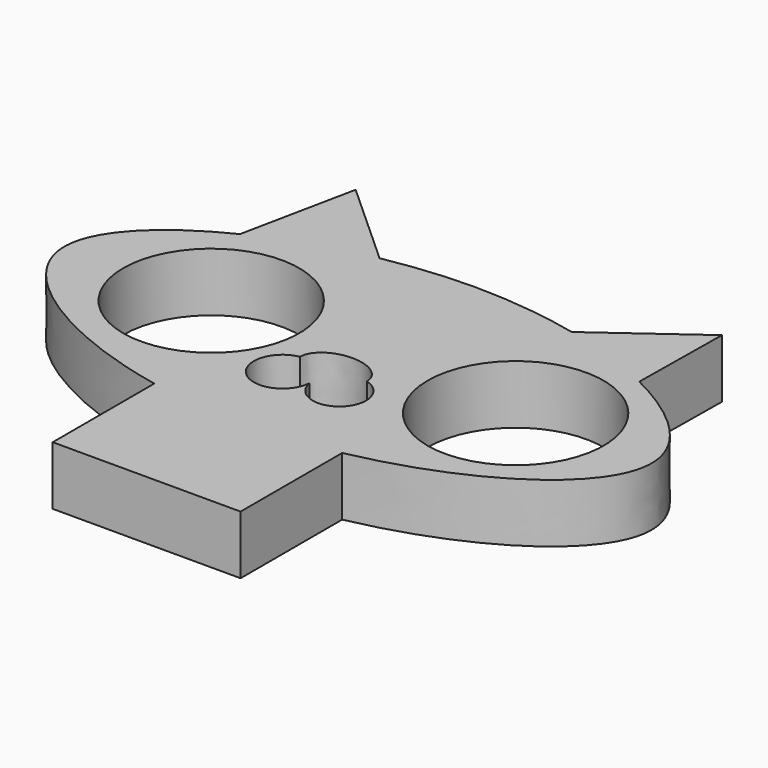
from build123d import *

# Parameters (mm, degrees)
F1_DEPTH = 5


with BuildPart() as f1:
    # F0 (on Top) → F1 (new body)
    with BuildSketch(Plane.XY):
        with BuildLine():
            Line((-25.9063377976, 0), (-30.9063377976, 0))
            ThreePointArc((-30.9063377976, 0), (-38.4063377976, -7.5), (-45.9063377976, 0))
            Line((-45.9063377976, 0), (-50.9063377976, 0))
            add(Edge.make_bspline(
                [(-33.9063377976, -11.6829281652), (-43.2373721422, -9.7909177656), (-50.9063377976, -4.8954588828), (-50.9063377976, 0)],
                knots=[0.0541816447, 0.0541816447, 0.0541816447, 0.0541816447, 0.25, 0.25, 0.25, 0.25], degree=3))
            add(Edge.make_bspline(
                [(-25.9063377976, -12.5), (-28.615420032, -12.5), (-31.3245022664, -12.2064349379), (-33.9063377976, -11.6829281652)],
                knots=[0, 0, 0, 0, 0.0541816447, 0.0541816447, 0.0541816447, 0.0541816447], degree=3))
            Line((-25.9063377976, -12.5), (-25.9063377976, -5.3838636288))
            ThreePointArc((-25.9063377976, -5.3838636288), (-30.0224367816, -6.7689191749), (-28.750597313, -2.6164411101))
            add(Edge.make_bspline(
                [(-25.9063377976, -0.5781269538), (-28.750597313, -0.5781269538), (-28.750597313, -2.6164411101)],
                knots=[1.5707963268, 1.5707963268, 1.5707963268, 3.1415926536, 3.1415926536, 3.1415926536], degree=2, weights=[1, 0.7071067812, 1]))
            Line((-25.9063377976, -0.5781269538), (-25.9063377976, 0))
        make_face()
        with BuildLine():
            ThreePointArc((-45.9063377976, 0), (-38.4063377976, 7.5), (-30.9063377976, 0))
            Line((-30.9063377976, 0), (-25.9063377976, 0))
            Line((-25.9063377976, 0), (-25.9063377976, 8.6866739607))
            Line((-25.9063377976, 8.6866739607), (-42.9063377976, 8.6866739607))
            add(Edge.make_bspline(
                [(-50.9063377976, 0), (-50.9063377976, 3.1664839146), (-47.6978192755, 6.3329678293), (-42.9063377976, 8.6866739607)],
                knots=[0.25, 0.25, 0.25, 0.25, 0.3766593566, 0.3766593566, 0.3766593566, 0.3766593566], degree=3))
            Line((-50.9063377976, 0), (-45.9063377976, 0))
        make_face()
        with BuildLine():
            Line((-19.9799482524, 0), (-25.9063377976, 0))
            Line((-25.9063377976, 0), (-25.9063377976, -0.5781269538))
            add(Edge.make_bspline(
                [(-23.0620782822, -2.6164411101), (-23.0620782822, -0.5781269538), (-25.9063377976, -0.5781269538)],
                knots=[0, 0, 0, 1.5707963268, 1.5707963268, 1.5707963268], degree=2, weights=[1, 0.7071067812, 1]))
            ThreePointArc((-23.0620782822, -2.6164411101), (-22.1210046763, -6.4932497418), (-25.8834229341, -5.1667982533))
            ThreePointArc((-25.8834229341, -5.1667982533), (-25.8924530621, -5.2755871834), (-25.9063377976, -5.3838636288))
            Line((-25.9063377976, -5.3838636288), (-25.9063377976, -12.5))
            add(Edge.make_bspline(
                [(-17.9063377976, -11.6829281652), (-20.4881733289, -12.2064349379), (-23.1972555633, -12.5), (-25.9063377976, -12.5)],
                knots=[0.9458183553, 0.9458183553, 0.9458183553, 0.9458183553, 1, 1, 1, 1], degree=3))
            add(Edge.make_bspline(
                [(-0.9063377976, 0), (-0.9063377976, -4.8954588828), (-8.5753034531, -9.7909177656), (-17.9063377976, -11.6829281652)],
                knots=[0.75, 0.75, 0.75, 0.75, 0.9458183553, 0.9458183553, 0.9458183553, 0.9458183553], degree=3))
            Line((-0.9063377976, 0), (-4.9799482524, 0))
            ThreePointArc((-4.9799482524, 0), (-12.4799482524, -7.5), (-19.9799482524, 0))
        make_face()
        with BuildLine():
            Line((-25.9063377976, 8.6866739607), (-25.9063377976, 0))
            Line((-25.9063377976, 0), (-19.9799482524, 0))
            ThreePointArc((-19.9799482524, 0), (-12.4799482524, 7.5), (-4.9799482524, 0))
            Line((-4.9799482524, 0), (-0.9063377976, 0))
            add(Edge.make_bspline(
                [(-8.8899015438, 8.6785937828), (-4.1075202733, 6.3257237488), (-0.9063377976, 3.1628618744), (-0.9063377976, 0)],
                knots=[0.623485525, 0.623485525, 0.623485525, 0.623485525, 0.75, 0.75, 0.75, 0.75], degree=3))
            add(Edge.make_bspline(
                [(-8.9063377976, 8.6866739607), (-8.9008569744, 8.6839816311), (-8.8953782223, 8.6812882381), (-8.8899015438, 8.6785937828)],
                knots=[0.6233406434, 0.6233406434, 0.6233406434, 0.6233406434, 0.623485525, 0.623485525, 0.623485525, 0.623485525], degree=3))
            Line((-8.9063377976, 8.6866739607), (-25.9063377976, 8.6866739607))
        make_face()
        with BuildLine():
            Line((-42.9063377976, 8.6866739607), (-25.9063377976, 8.6866739607))
            Line((-25.9063377976, 8.6866739607), (-25.9063377976, 12.5))
            add(Edge.make_bspline(
                [(-33.4789344312, 11.7672606909), (-31.0263174898, 12.2378580795), (-28.4663276437, 12.5), (-25.9063377976, 12.5)],
                knots=[0.4488002031, 0.4488002031, 0.4488002031, 0.4488002031, 0.5, 0.5, 0.5, 0.5], degree=3))
            add(Edge.make_bspline(
                [(-41.1459706937, 9.4849044236), (-38.8240102839, 10.4558894105), (-36.2184537211, 11.2416137372), (-33.4789344312, 11.7672606909)],
                knots=[0.3916111537, 0.3916111537, 0.3916111537, 0.3916111537, 0.4488002031, 0.4488002031, 0.4488002031, 0.4488002031], degree=3))
            add(Edge.make_bspline(
                [(-42.9063377976, 8.6866739607), (-42.3407162678, 8.964522653), (-41.7530358818, 9.2310451497), (-41.1459706937, 9.4849044236)],
                knots=[0.3766593566, 0.3766593566, 0.3766593566, 0.3766593566, 0.3916111537, 0.3916111537, 0.3916111537, 0.3916111537], degree=3))
        make_face()
        with BuildLine():
            Line((-25.9063377976, 12.5), (-25.9063377976, 8.6866739607))
            Line((-25.9063377976, 8.6866739607), (-8.9063377976, 8.6866739607))
            add(Edge.make_bspline(
                [(-15.2081048927, 11.0406520967), (-12.9280458404, 10.4153300926), (-10.7943088262, 9.6140967227), (-8.9063377976, 8.6866739607)],
                knots=[0.5734334911, 0.5734334911, 0.5734334911, 0.5734334911, 0.6233406434, 0.6233406434, 0.6233406434, 0.6233406434], degree=3))
            add(Edge.make_bspline(
                [(-16.8685760838, 11.4586327815), (-16.3076164239, 11.3298315863), (-15.7536719147, 11.1902776353), (-15.2081048927, 11.0406520967)],
                knots=[0.5614918283, 0.5614918283, 0.5614918283, 0.5614918283, 0.5734334911, 0.5734334911, 0.5734334911, 0.5734334911], degree=3))
            add(Edge.make_bspline(
                [(-25.9063377976, 12.5), (-22.8317463823, 12.5), (-19.757154967, 12.1218755052), (-16.8685760838, 11.4586327815)],
                knots=[0.5, 0.5, 0.5, 0.5, 0.5614918283, 0.5614918283, 0.5614918283, 0.5614918283], degree=3))
        make_face()
        with BuildLine():
            add(Edge.make_bspline(
                [(-25.9063377976, -12.5), (-28.615420032, -12.5), (-31.3245022664, -12.2064349379), (-33.9063377976, -11.6829281652)],
                knots=[0, 0, 0, 0, 0.0541816447, 0.0541816447, 0.0541816447, 0.0541816447], degree=3))
            Line((-33.9063377976, -11.6829281652), (-33.9063377976, -22.5))
            Line((-33.9063377976, -22.5), (-25.9063377976, -22.5))
            Line((-25.9063377976, -22.5), (-25.9063377976, -12.5))
        make_face()
        with BuildLine():
            Line((-40.8898863235, 18.4812603967), (-42.9063377976, 8.6866739607))
            add(Edge.make_bspline(
                [(-42.9063377976, 8.6866739607), (-42.3407162678, 8.964522653), (-41.7530358818, 9.2310451497), (-41.1459706937, 9.4849044236)],
                knots=[0.3766593566, 0.3766593566, 0.3766593566, 0.3766593566, 0.3916111537, 0.3916111537, 0.3916111537, 0.3916111537], degree=3))
            Line((-41.1459706937, 9.4849044236), (-40.8898863235, 18.4812603967))
        make_face()
        with BuildLine():
            add(Edge.make_bspline(
                [(-15.2081048927, 11.0406520967), (-12.9280458404, 10.4153300926), (-10.7943088262, 9.6140967227), (-8.9063377976, 8.6866739607)],
                knots=[0.5734334911, 0.5734334911, 0.5734334911, 0.5734334911, 0.6233406434, 0.6233406434, 0.6233406434, 0.6233406434], degree=3))
            add(Edge.make_bspline(
                [(-8.9063377976, 8.6866739607), (-8.9008569744, 8.6839816311), (-8.8953782223, 8.6812882381), (-8.8899015438, 8.6785937828)],
                knots=[0.6233406434, 0.6233406434, 0.6233406434, 0.6233406434, 0.623485525, 0.623485525, 0.623485525, 0.623485525], degree=3))
            Line((-8.8899015438, 8.6785937828), (-8.7832060268, 17.3430861156))
            Line((-8.7832060268, 17.3430861156), (-15.2081048927, 11.0406520967))
        make_face()
        with BuildLine():
            add(Edge.make_bspline(
                [(-17.9063377976, -11.6829281652), (-20.4881733289, -12.2064349379), (-23.1972555633, -12.5), (-25.9063377976, -12.5)],
                knots=[0.9458183553, 0.9458183553, 0.9458183553, 0.9458183553, 1, 1, 1, 1], degree=3))
            Line((-25.9063377976, -12.5), (-25.9063377976, -22.5))
            Line((-25.9063377976, -22.5), (-17.9063377976, -22.5))
            Line((-17.9063377976, -22.5), (-17.9063377976, -11.6829281652))
        make_face()
        with BuildLine():
            Line((-40.8898863235, 18.4812603967), (-41.1459706937, 9.4849044236))
            add(Edge.make_bspline(
                [(-41.1459706937, 9.4849044236), (-38.8240102839, 10.4558894105), (-36.2184537211, 11.2416137372), (-33.4789344312, 11.7672606909)],
                knots=[0.3916111537, 0.3916111537, 0.3916111537, 0.3916111537, 0.4488002031, 0.4488002031, 0.4488002031, 0.4488002031], degree=3))
            Line((-33.4789344312, 11.7672606909), (-40.8898863235, 18.4812603967))
        make_face()
        with BuildLine():
            Line((-8.7832060268, 17.3430861156), (-16.8685760838, 11.4586327815))
            add(Edge.make_bspline(
                [(-16.8685760838, 11.4586327815), (-16.3076164239, 11.3298315863), (-15.7536719147, 11.1902776353), (-15.2081048927, 11.0406520967)],
                knots=[0.5614918283, 0.5614918283, 0.5614918283, 0.5614918283, 0.5734334911, 0.5734334911, 0.5734334911, 0.5734334911], degree=3))
            Line((-15.2081048927, 11.0406520967), (-8.7832060268, 17.3430861156))
        make_face()
    extrude(amount=F1_DEPTH)


solid = f1.part
